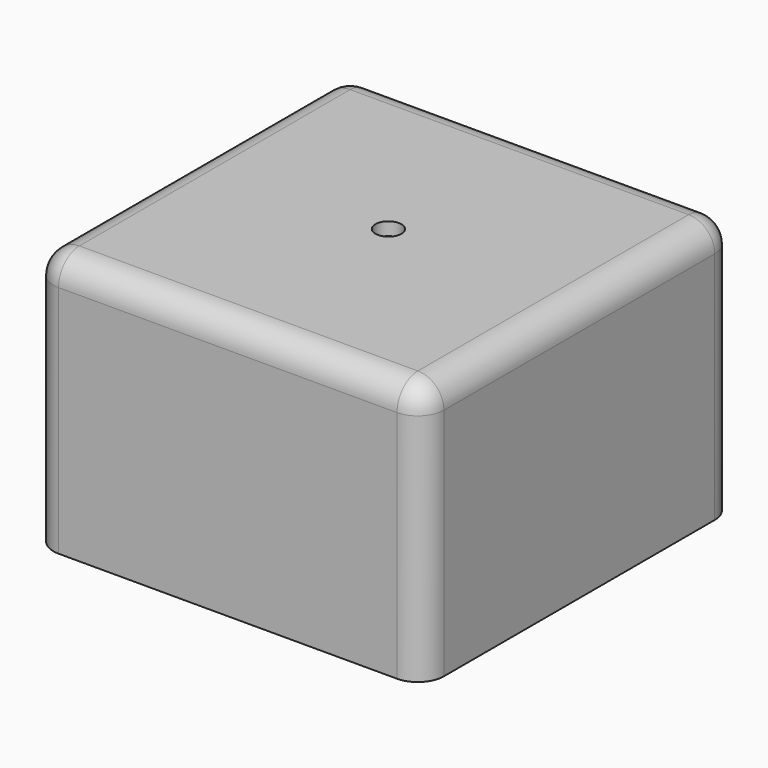
from build123d import *

# Parameters (mm, degrees)
CYLINDER002_R     = 1
CYLINDER002_DEPTH = 1
BOX006_W          = 3
BOX006_H          = 3
BOX006_DEPTH      = 2
BOX005_W          = 3
BOX005_H          = 3
BOX005_DEPTH      = 2
BOX003_W          = 3
BOX003_H          = 3
BOX003_DEPTH      = 2
BOX004_W          = 3
BOX004_H          = 3
BOX004_DEPTH      = 2
BOX002_W          = 3
BOX002_H          = 3
BOX002_DEPTH      = 2
CYLINDER_R        = 7
CYLINDER_DEPTH    = 2
BOX_W             = 26
BOX_H             = 26
BOX_DEPTH         = 17
BOX001_W          = 30
BOX001_H          = 30
BOX001_DEPTH      = 20
CYLINDER001_R     = 3
CYLINDER001_DEPTH = 2
BOX010_W          = 6
BOX010_H          = 2
BOX010_DEPTH      = 3.4
BOX008_W          = 4
BOX008_H          = 4
BOX008_DEPTH      = 3.4
BOX007_W          = 26
BOX007_H          = 1.8
BOX007_DEPTH      = 3.4
BOX009_W          = 6
BOX009_H          = 2
BOX009_DEPTH      = 3.4
BOX011_W          = 6
BOX011_H          = 2
BOX011_DEPTH      = 3.4
FILLET_R          = 2


with BuildPart() as obj1:
    # Cylinder002 → Cylinder002 (new body)
    with BuildSketch(Plane(origin=(0.1, 0.3, 9), x_dir=(1, 0, 0), z_dir=(0, 0, 1))):
        Circle(CYLINDER002_R)
    extrude(amount=CYLINDER002_DEPTH)


with BuildPart() as l5:
    # Box006 → Box006 (new body)
    with BuildSketch(Plane(origin=(7.67, 8.11, 7), x_dir=(1, 0, 0), z_dir=(0, 0, 1))):
        with Locations((1.5, 1.5)):
            Rectangle(BOX006_W, BOX006_H)
    extrude(amount=BOX006_DEPTH)


with BuildPart() as l4:
    # Box005 → Box005 (new body)
    with BuildSketch(Plane(origin=(3.1, 8.11, 7), x_dir=(1, 0, 0), z_dir=(0, 0, 1))):
        with Locations((1.5, 1.5)):
            Rectangle(BOX005_W, BOX005_H)
    extrude(amount=BOX005_DEPTH)


with BuildPart() as l2:
    # Box003 → Box003 (new body)
    with BuildSketch(Plane(origin=(-6.04, 8.11, 7), x_dir=(1, 0, 0), z_dir=(0, 0, 1))):
        with Locations((1.5, 1.5)):
            Rectangle(BOX003_W, BOX003_H)
    extrude(amount=BOX003_DEPTH)


with BuildPart() as l3:
    # Box004 → Box004 (new body)
    with BuildSketch(Plane(origin=(-1.47, 8.11, 7), x_dir=(1, 0, 0), z_dir=(0, 0, 1))):
        with Locations((1.5, 1.5)):
            Rectangle(BOX004_W, BOX004_H)
    extrude(amount=BOX004_DEPTH)


with BuildPart() as fusion:
    # Box002 → Box002 (new body)
    with BuildSketch(Plane(origin=(-10.61, 8.11, 7), x_dir=(1, 0, 0), z_dir=(0, 0, 1))):
        with Locations((1.5, 1.5)):
            Rectangle(BOX002_W, BOX002_H)
    extrude(amount=BOX002_DEPTH)

    # Fusion: union L5, L4, L2, L3
    add(l5.part)
    add(l4.part)
    add(l2.part)
    add(l3.part)


with BuildPart() as but:
    # Cylinder → Cylinder (new body)
    with BuildSketch(Plane(origin=(0.1, 0.3, 7), x_dir=(1, 0, 0), z_dir=(0, 0, 1))):
        Circle(CYLINDER_R)
    extrude(amount=CYLINDER_DEPTH)


with BuildPart() as maininside:
    # Box → Box (new body)
    with BuildSketch(Plane(origin=(-13, -13, -10), x_dir=(1, 0, 0), z_dir=(0, 0, 1))):
        with Locations((13, 13)):
            Rectangle(BOX_W, BOX_H)
    extrude(amount=BOX_DEPTH)


with BuildPart() as cut002:
    # Box001 → Box001 (new body)
    with BuildSketch(Plane(origin=(-15, -15, -10), x_dir=(1, 0, 0), z_dir=(0, 0, 1))):
        with Locations((15, 15)):
            Rectangle(BOX001_W, BOX001_H)
    extrude(amount=BOX001_DEPTH)

    # Cut: cut MainInside
    add(maininside.part, mode=Mode.SUBTRACT)

    # Cut001: cut But
    add(but.part, mode=Mode.SUBTRACT)

    # Cut002: cut Fusion
    add(fusion.part, mode=Mode.SUBTRACT)


with BuildPart() as cut003:
    # Cylinder001 → Cylinder001 (new body)
    with BuildSketch(Plane(origin=(0.1, 0.3, 8), x_dir=(1, 0, 0), z_dir=(0, 0, 1))):
        Circle(CYLINDER001_R)
    extrude(amount=CYLINDER001_DEPTH)

    # Fusion001: union Cut002
    add(cut002.part)

    # Cut003: cut obj1
    add(obj1.part, mode=Mode.SUBTRACT)


with BuildPart() as obj2:
    # Box010 → Box010 (new body)
    with BuildSketch(Plane(origin=(-13, 5.5, 3.6), x_dir=(1, 0, 0), z_dir=(0, 0, 1))):
        with Locations((3, 1)):
            Rectangle(BOX010_W, BOX010_H)
    extrude(amount=BOX010_DEPTH)


with BuildPart() as obj3:
    # Box008 → Box008 (new body)
    with BuildSketch(Plane(origin=(8, 0, 3.6), x_dir=(1, 0, 0), z_dir=(0, 0, 1))):
        with Locations((2, 2)):
            Rectangle(BOX008_W, BOX008_H)
    extrude(amount=BOX008_DEPTH)


with BuildPart() as obj4:
    # Box007 → Box007 (new body)
    with BuildSketch(Plane(origin=(-13, 11.2, 3.6), x_dir=(1, 0, 0), z_dir=(0, 0, 1))):
        with Locations((13, 0.9)):
            Rectangle(BOX007_W, BOX007_H)
    extrude(amount=BOX007_DEPTH)


with BuildPart() as obj5:
    # Box009 → Box009 (new body)
    with BuildSketch(Plane(origin=(-13, -4, 3.6), x_dir=(1, 0, 0), z_dir=(0, 0, 1))):
        with Locations((3, 1)):
            Rectangle(BOX009_W, BOX009_H)
    extrude(amount=BOX009_DEPTH)


with BuildPart() as fillet_body:
    # Box011 → Box011 (new body)
    with BuildSketch(Plane(origin=(7, -13, 3.6), x_dir=(1, 0, 0), z_dir=(0, 0, 1))):
        with Locations((3, 1)):
            Rectangle(BOX011_W, BOX011_H)
    extrude(amount=BOX011_DEPTH)

    # Fusion002: union obj2, obj3, obj4, obj5
    add(obj2.part)
    add(obj3.part)
    add(obj4.part)
    add(obj5.part)

    # Fusion003: union Cut003
    add(cut003.part)

    # Fillet
    fillet_edges = [fillet_body.edges().sort_by_distance(p)[0] for p in [
        (-15, -15, 0),
        (-15, 0, 10),
        (-15, 15, 0),
        (15, 15, 0),
        (0, 15, 10),
        (15, -15, 0),
        (0, -15, 10),
        (15, 0, 10),
    ]]
    fillet(fillet_edges, radius=FILLET_R)


solid = fillet_body.part
